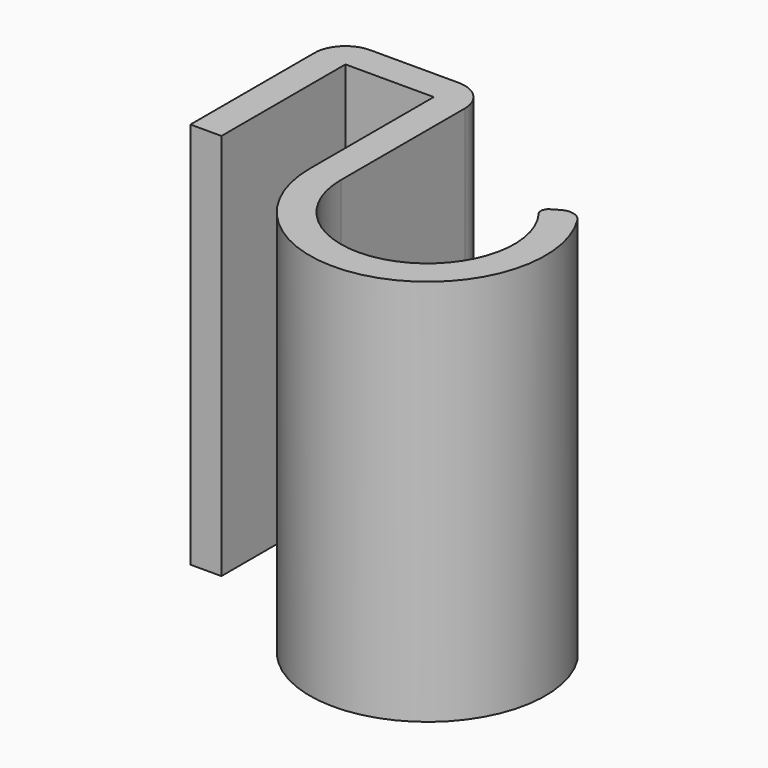
from build123d import *

# Parameters (mm, degrees)
F1_DEPTH = 25
F2_R     = 2
F3_R     = 2
F4_R     = 1
F5_R     = 0.5


with BuildPart() as f1:
    # F0 (on Top) → F1 (new body)
    with BuildSketch(Plane.XY):
        with BuildLine():
            Line((7.7, 12), (-2, 12))
            Line((-2, 12), (-2, 0))
            Line((-2, 0), (0, 0))
            Line((0, 0), (0, 10))
            Line((0, 10), (5.7, 10))
            Line((5.7, 10), (5.7, 0))
            ThreePointArc((5.7, 0), (15.867507, -7.153175), (19.165239, 4.833112))
            Line((19.165239, 4.833112), (17.410544, 3.803082))
            ThreePointArc((17.410544, 3.803082), (15.342175, -5.214357), (7.7, 0))
            Line((7.7, 0), (7.7, 12))
        make_face()
    extrude(amount=F1_DEPTH)

    # F2
    f2_edges = [f1.edges().sort_by_distance(p)[0] for p in [
        (7.7, 12, 12.5),
    ]]
    fillet(f2_edges, radius=F2_R)

    # F3
    f3_edges = [f1.edges().sort_by_distance(p)[0] for p in [
        (-2, 12, 12.5),
    ]]
    fillet(f3_edges, radius=F3_R)

    # F4
    f4_edges = [f1.edges().sort_by_distance(p)[0] for p in [
        (19.165239, 4.833112, 12.5),
    ]]
    fillet(f4_edges, radius=F4_R)

    # F5
    f5_edges = [f1.edges().sort_by_distance(p)[0] for p in [
        (17.410544, 3.803082, 12.5),
    ]]
    fillet(f5_edges, radius=F5_R)


solid = f1.part
